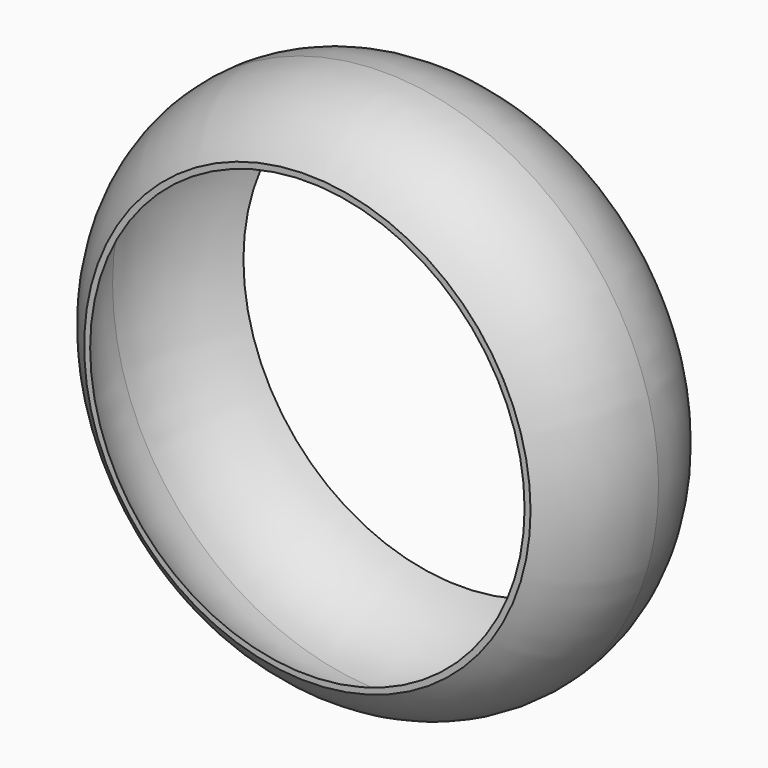
from build123d import *

# Parameters (mm, degrees)
CYLINDER030_R          = 100
CYLINDER030_DEPTH      = 86
CYLINDER030_ROLL_ANGLE = 90
CYLINDER_R             = 50
CYLINDER_DEPTH         = 70
CYLINDER_ROLL_ANGLE    = 90
TORUS_R                = 35
TORUS_ROLL_ANGLE       = 90
CYLINDER029_R          = 60
CYLINDER029_DEPTH      = 86
CYLINDER029_ROLL_ANGLE = 90
TORUS001_R             = 36
TORUS001_ROLL_ANGLE    = 90


with BuildPart() as cilindro030:
    # Cylinder030 → Cylinder030 (new body)
    with BuildSketch(Plane.XY):
        Circle(CYLINDER030_R)
    extrude(amount=CYLINDER030_DEPTH)


with BuildPart() as cilindro030_1:
    # Cylinder030 roll: moved
    add(cilindro030.part.rotate(Axis((0, 0, 0), (1, 0, 0)), CYLINDER030_ROLL_ANGLE))


with BuildPart() as cilindro030_2:
    # Cylinder030 placement: moved
    add(cilindro030_1.part.moved(Location((0, -30, 0))))


with BuildPart() as fusion021:
    # Part__Mirroring005: instance of Cilindro030
    add(cilindro030_2.part.mirror(Plane(origin=(0, 0, 0), x_dir=(1, 0, 0), z_dir=(0, 1, 0))))

    # Fusion021: union Cilindro030
    add(cilindro030_2.part)


with BuildPart() as cilindro:
    # Cylinder → Cylinder (new body)
    with BuildSketch(Plane.XY):
        Circle(CYLINDER_R)
    extrude(amount=CYLINDER_DEPTH)


with BuildPart() as cilindro_1:
    # Cylinder roll: moved
    add(cilindro.part.rotate(Axis((0, 0, 0), (1, 0, 0)), CYLINDER_ROLL_ANGLE))


with BuildPart() as cilindro_2:
    # Cylinder placement: moved
    add(cilindro_1.part.moved(Location((0, 35, 0))))


with BuildPart() as clone_of_fusion:
    # Torus → Torus (revolve)
    with BuildSketch(Plane.XZ):
        with Locations((50, 0)):
            Circle(TORUS_R)
    revolve(axis=Axis((0, 0, 0), (0, 0, 1)))


with BuildPart() as clone_of_fusion_1:
    # Torus roll: moved
    add(clone_of_fusion.part.rotate(Axis((0, 0, 0), (1, 0, 0)), TORUS_ROLL_ANGLE))


with BuildPart() as clone_of_fusion_2:
    # Torus placement: moved
    add(clone_of_fusion_1.part)

    # Fusion: union Cilindro
    add(cilindro_2.part)


with BuildPart() as cilindro029:
    # Cylinder029 → Cylinder029 (new body)
    with BuildSketch(Plane.XY):
        Circle(CYLINDER029_R)
    extrude(amount=CYLINDER029_DEPTH)


with BuildPart() as cilindro029_1:
    # Cylinder029 roll: moved
    add(cilindro029.part.rotate(Axis((0, 0, 0), (1, 0, 0)), CYLINDER029_ROLL_ANGLE))


with BuildPart() as cilindro029_2:
    # Cylinder029 placement: moved
    add(cilindro029_1.part.moved(Location((0, 42, 0))))


with BuildPart() as cut030:
    # Torus001 → Torus001 (revolve)
    with BuildSketch(Plane.XZ):
        with Locations((50, 0)):
            Circle(TORUS001_R)
    revolve(axis=Axis((0, 0, 0), (0, 0, 1)))


with BuildPart() as cut030_1:
    # Torus001 roll: moved
    add(cut030.part.rotate(Axis((0, 0, 0), (1, 0, 0)), TORUS001_ROLL_ANGLE))


with BuildPart() as cut030_2:
    # Torus001 placement: moved
    add(cut030_1.part)

    # Cut028: cut Cilindro029
    add(cilindro029_2.part, mode=Mode.SUBTRACT)

    # Cut029: cut Clone of Fusion
    add(clone_of_fusion_2.part, mode=Mode.SUBTRACT)

    # Cut030: cut Fusion021
    add(fusion021.part, mode=Mode.SUBTRACT)


solid = cut030_2.part
